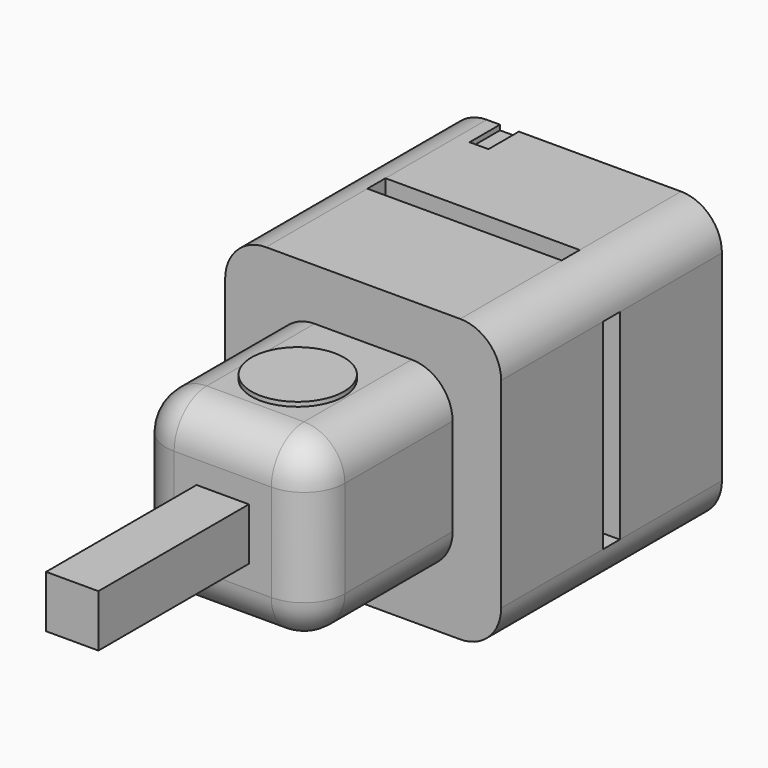
from build123d import *

# Parameters (mm, degrees)
F0_W      = 111.801914
F0_H      = 111.801914
F1_DEPTH  = 57.15
F2_W      = 72.47591
F2_H      = 72.47591
F3_DEPTH  = 71.12
F4_W      = 21.19565
F4_H      = 21.19565
F5_DEPTH  = 76.2
F6_R      = 16.556677
F7_W      = 7.638184
F7_H      = 15.41857
F8_DEPTH  = 25.4
F8_FACE_W = 7.638184
F8_FACE_H = 15.41857
F9_DEPTH  = 27.432
F10_W     = 78.688562
F10_H     = 9.165822
F11_DEPTH = 8.89
F12_W     = 8.714252
F12_H     = 81.186646
F13_DEPTH = 8.636
F14_W     = 78.688562
F14_H     = 8.29689
F15_DEPTH = 15.748
F16_W     = 8.432022
F16_H     = 81.186646
F17_DEPTH = 12.446
F18_R     = 18.732784
F19_DEPTH = 1.778


with BuildPart() as f1:
    # F0 (on Top) → F1 (new body, symmetric)
    with BuildSketch(Plane.XY):
        Rectangle(F0_W, F0_H)
    extrude(amount=F1_DEPTH, both=True)

    # F2 (on face) → F3 (join)
    with BuildSketch(Plane.XZ.offset(55.900957)):
        Rectangle(F2_W, F2_H)
    extrude(amount=F3_DEPTH)

    # F4 (on face) → F5 (join)
    with BuildSketch(Plane.XZ.offset(127.020957)):
        Rectangle(F4_W, F4_H)
    extrude(amount=F5_DEPTH)

    # F6
    f6_edges = [f1.edges().sort_by_distance(p)[0] for p in [
        (-55.900957, 0, 57.15),
        (-55.900957, 0, -57.15),
        (55.900957, 0, -57.15),
        (55.900957, 0, 57.15),
        (36.237955, -127.020957, 0),
        (0, -127.020957, -36.237955),
        (-36.237955, -127.020957, 0),
        (0, -127.020957, 36.237955),
        (-36.237955, -91.460957, -36.237955),
        (36.237955, -91.460957, -36.237955),
        (36.237955, -91.460957, 36.237955),
        (-36.237955, -91.460957, 36.237955),
    ]]
    fillet(f6_edges, radius=F6_R)

    # F7 (on face) → F8 (join)
    with BuildSketch(Plane.XY.offset(57.15)):
        with Locations((-30.17084, 48.191672)):
            Rectangle(F7_W, F7_H)
    extrude(amount=F8_DEPTH)

    # F8_face (on face) → F9 (cut)
    with BuildSketch(Plane(origin=(-30.17084, 48.191672, 82.55), x_dir=(1, 0, 0), z_dir=(0, 0, 1))):
        Rectangle(F8_FACE_W, F8_FACE_H)
    extrude(amount=-F9_DEPTH, mode=Mode.SUBTRACT)

    # F10 (on face) → F11 (cut)
    with BuildSketch(Plane.XY.offset(57.15)):
        Rectangle(F10_W, F10_H)
    extrude(amount=-F11_DEPTH, mode=Mode.SUBTRACT)

    # F12 (on face) → F13 (cut)
    with BuildSketch(Plane(origin=(-55.900957, 0, 0), x_dir=(0, -1, 0), z_dir=(-1, 0, 0))):
        Rectangle(F12_W, F12_H)
    extrude(amount=-F13_DEPTH, mode=Mode.SUBTRACT)

    # F14 (on face) → F15 (cut)
    with BuildSketch(Plane(origin=(0, 0, -57.15), x_dir=(1, 0, 0), z_dir=(0, 0, -1))):
        Rectangle(F14_W, F14_H)
    extrude(amount=-F15_DEPTH, mode=Mode.SUBTRACT)

    # F16 (on face) → F17 (cut)
    with BuildSketch(Plane.YZ.offset(55.900957)):
        Rectangle(F16_W, F16_H)
    extrude(amount=-F17_DEPTH, mode=Mode.SUBTRACT)

    # F18 (on face) → F19 (join)
    with BuildSketch(Plane.XY.offset(36.237955)):
        with Locations((0, -89.04539)):
            Circle(F18_R)
    extrude(amount=F19_DEPTH)


solid = f1.part
